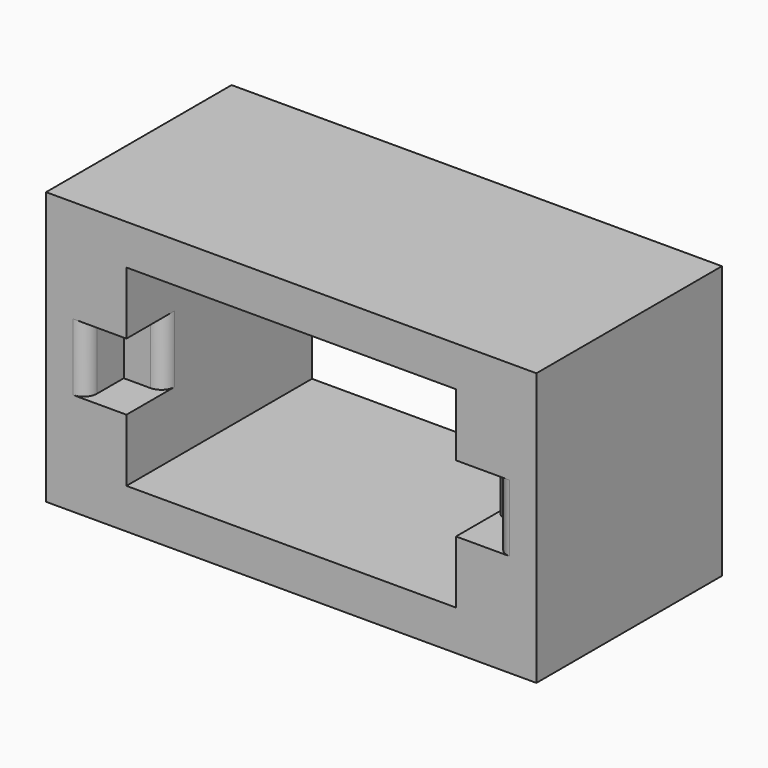
from build123d import *

# Parameters (mm, degrees)
SKETCH040_W             = 36.6
SKETCH040_H             = 20.35
SKETCH040_W_2           = 24.6
SKETCH040_H_2           = 14.35
PAD021_DEPTH            = 17.31
SKETCH042_R             = 0.75
POCKET015_DEPTH         = 10
SKETCH041_W             = 3
SKETCH041_H             = 5
POCKET014_DEPTH         = 3.5
FILLET021_R             = 1
FILLET019_R             = 1
FILLET023_R             = 1
FILLET022_R             = 1
BODY010_PLACEMENT_ANGLE = 180


with BuildPart() as part:
    # Sketch040 (on Face1 of ReferencePocket006) → Pad021 (new body)
    with BuildSketch(Plane.XZ):
        with Locations((11.3, 6.175)):
            Rectangle(SKETCH040_W, SKETCH040_H)
        with Locations((11.3, 6.175)):
            Rectangle(SKETCH040_W_2, SKETCH040_H_2, mode=Mode.SUBTRACT)
    extrude(amount=-PAD021_DEPTH)

    # Sketch042 (on Face10 of Pad022) → Pocket015 (cut)
    with BuildSketch(Plane(origin=(0, 19.97, 0), x_dir=(-1, 0, 0), z_dir=(0, 1, 0))):
        with Locations((-25.73, 6.175)):
            Circle(SKETCH042_R)
        with Locations((3.13, 6.175)):
            Circle(SKETCH042_R)
    extrude(amount=-POCKET015_DEPTH, mode=Mode.SUBTRACT)

    # Sketch041 (on Face4 of Pocket015) → Pocket014 (cut)
    with BuildSketch(Plane.XZ):
        with Locations((-2.5, 6.175)):
            Rectangle(SKETCH041_W, SKETCH041_H)
        with Locations((25.1, 6.175)):
            Rectangle(SKETCH041_W, SKETCH041_H)
    extrude(amount=-POCKET014_DEPTH, mode=Mode.SUBTRACT)

    # Fillet021
    fillet021_edges = [part.edges().sort_by_distance(p)[0] for p in [
        (26.6, 0, 6.175),
    ]]
    fillet(fillet021_edges, radius=FILLET021_R)

    # Fillet019
    fillet019_edges = [part.edges().sort_by_distance(p)[0] for p in [
        (23.6, 3.5, 6.175),
    ]]
    fillet(fillet019_edges, radius=FILLET019_R)

    # Fillet023
    fillet023_edges = [part.edges().sort_by_distance(p)[0] for p in [
        (-1, 3.5, 6.175),
    ]]
    fillet(fillet023_edges, radius=FILLET023_R)

    # Fillet022
    fillet022_edges = [part.edges().sort_by_distance(p)[0] for p in [
        (-4, 0, 6.175),
    ]]
    fillet(fillet022_edges, radius=FILLET022_R)


with BuildPart() as part_1:
    # Body010 placement: moved
    add(part.part.moved(Location((20.600001, 126.400008, -13.43))).rotate(Axis((20.600001, 126.400008, -13.43), (0, 1, 0)), BODY010_PLACEMENT_ANGLE))


solid = part_1.part
